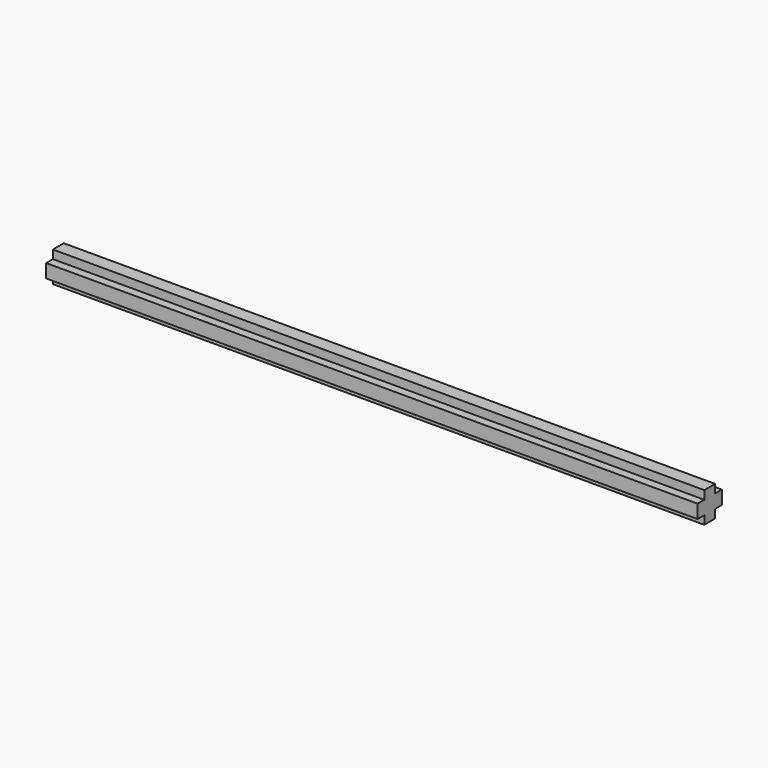
from build123d import *


with BuildPart() as f3:
    # F3: sweep along a path in F0
    with BuildLine(Plane.XZ) as f3_path:
        Line((-48, 0), (48, 0))
    # F2 (on face) → F3 (sweep)
    with BuildSketch(Plane.YZ.offset(-48)):
        Polygon((-1, -1), (-1, -2.25), (1, -2.25), (1, -1), (2.25, -1), (2.25, 1), (1, 1), (1, 2.25), (-1, 2.25), (-1, 1), (-2.25, 1), (-2.25, -1), align=None)
    sweep(path=f3_path.line)


solid = f3.part
